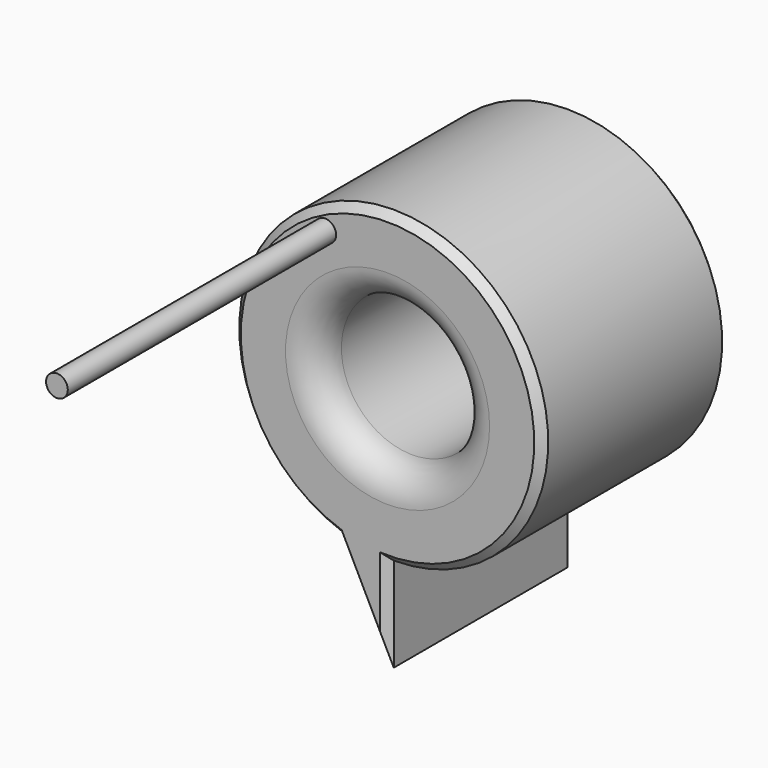
from build123d import *

# Parameters (mm, degrees)
F0_R     = 11.61063
F1_DEPTH = 38.1
F2_R     = 5.08
F3_SIZE  = 1.27
F5_R     = 1.777125
F6_DEPTH = 54.864


with BuildPart() as f1:
    # F0 (on Front) → F1 (new body)
    with BuildSketch(Plane.XZ):
        with BuildLine():
            Line((0, -40.706848), (0, -25.273476))
            ThreePointArc((0, -25.273476), (4.263921, 24.911194), (-8.405601, -23.834733))
            Line((-8.405601, -23.834733), (0, -40.706848))
        make_face()
        Circle(F0_R, mode=Mode.SUBTRACT)
    extrude(amount=F1_DEPTH)

    # F2
    f2_edges = [f1.edges().sort_by_distance(p)[0] for p in [
        (-11.61063, 0, 0),
        (-11.61063, -38.1, 0),
    ]]
    fillet(f2_edges, radius=F2_R)

    # F3
    f3_edges = [f1.edges().sort_by_distance(p)[0] for p in [
        (4.263921, -38.1, 24.911194),
        (0, -38.1, -32.990162),
        (4.263921, 0, 24.911194),
        (0, 0, -32.990162),
        (-4.2028, 0, -32.27079),
        (-4.2028, -38.1, -32.27079),
    ]]
    chamfer(f3_edges, length=F3_SIZE)

    # F5 (on face) → F6 (join)
    with BuildSketch(Plane.XZ.offset(38.1)):
        with Locations((-10.195103, 19.407116)):
            Circle(F5_R)
    extrude(amount=F6_DEPTH)


solid = f1.part
